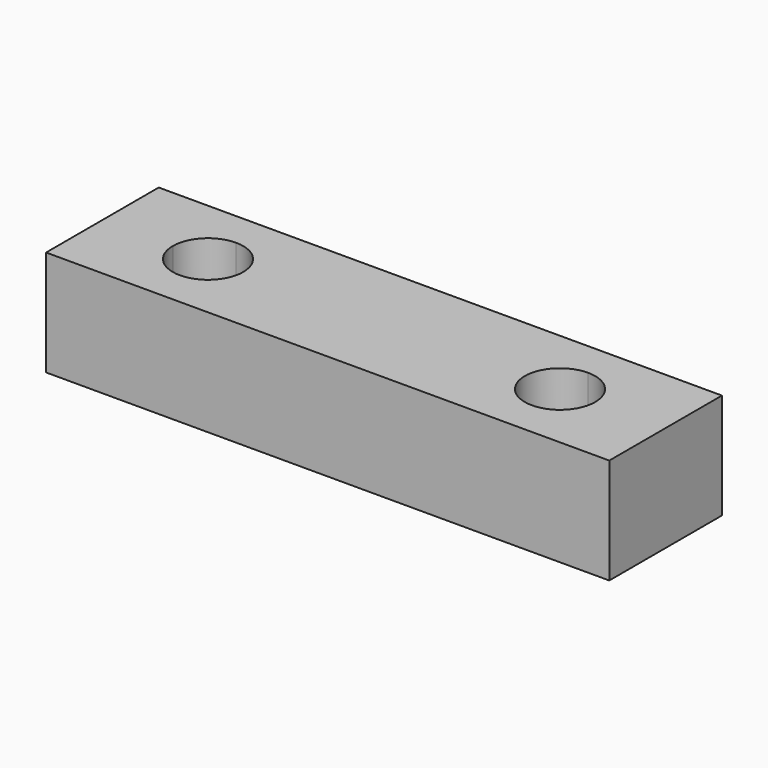
from build123d import *

# Parameters (mm, degrees)
F0_W     = 2032
F0_H     = 381
F1_DEPTH = 508
F3_DEPTH = 508


with BuildPart() as f1:
    # F0 (on Front) → F1 (new body)
    with BuildSketch(Plane.XZ):
        with Locations((-1016, 190.5)):
            Rectangle(F0_W, F0_H)
    extrude(amount=F1_DEPTH)

    # F2 (on face) → F3 (cut)
    with BuildSketch(Plane.XY.offset(381)):
        with BuildLine():
            ThreePointArc((-1524, -254), (-1561.197439, -164.197439), (-1651, -127))
            Line((-1651, -127), (-1651, -254))
            Line((-1651, -254), (-1778, -254))
            ThreePointArc((-1778, -254), (-1651, -381), (-1524, -254))
        make_face()
        with BuildLine():
            Line((-1651, -254), (-1651, -127))
            ThreePointArc((-1651, -127), (-1740.802561, -164.197439), (-1778, -254))
            Line((-1778, -254), (-1651, -254))
        make_face()
        with BuildLine():
            ThreePointArc((-254, -254), (-291.197439, -164.197439), (-381, -127))
            Line((-381, -127), (-381, -254))
            Line((-381, -254), (-254, -254))
        make_face()
        with BuildLine():
            Line((-381, -254), (-381, -127))
            ThreePointArc((-381, -127), (-470.802561, -343.802561), (-254, -254))
            Line((-254, -254), (-381, -254))
        make_face()
    extrude(amount=-F3_DEPTH, mode=Mode.SUBTRACT)


solid = f1.part
